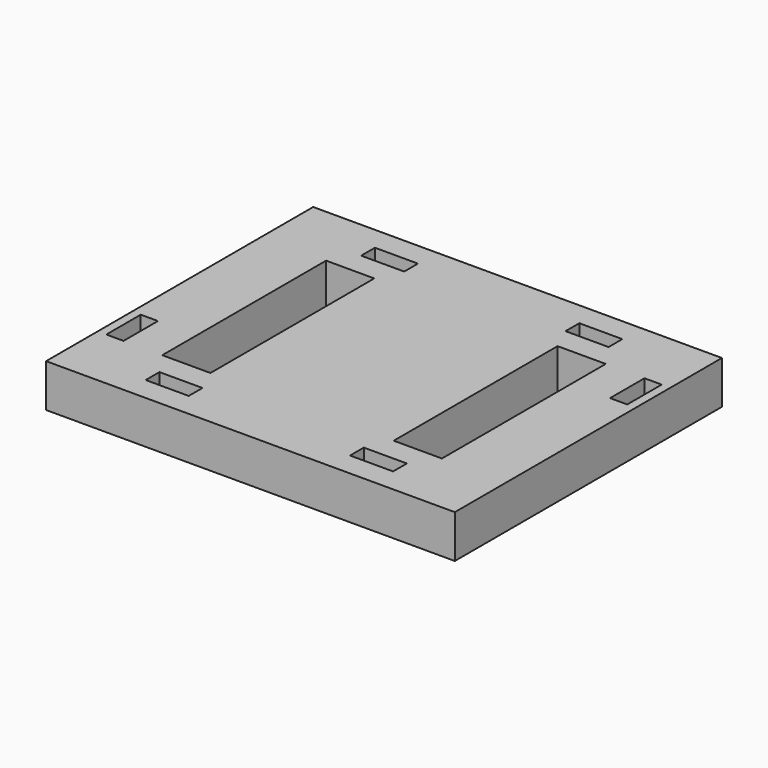
from build123d import *

# Parameters (mm, degrees)
F0_W     = 27.051
F0_H     = 60.452
F0_W_2   = 12.7
F0_H_2   = 5.08
F0_W_3   = 2.54
F0_H_3   = 12.7
F1_DEPTH = 12.7


with BuildPart() as f1:
    # F0 (on Top) → F1 (new body)
    with BuildSketch(Plane.XY):
        Polygon((-23.8125, 39.751), (0, 39.751), (0, 49.276), (-27.051, 49.276), (-60.325, 49.276), (-60.325, 39.751), (-36.5125, 39.751), (-36.5125, 42.291), (-23.8125, 42.291), align=None)
        Polygon((-30.1625, -37.211), (-30.1625, -30.226), (-41.275, -30.226), (-41.275, 30.226), (-30.1625, 30.226), (-30.1625, 37.211), (-36.5125, 37.211), (-36.5125, 39.751), (-60.325, 39.751), (-60.325, -17.526), (-57.785, -17.526), (-52.705, -17.526), (-52.705, -30.226), (-57.785, -30.226), (-60.325, -30.226), (-60.325, -49.276), (-30.1625, -49.276), (-30.1625, -42.291), (-36.5125, -42.291), (-36.5125, -37.211), align=None)
        Polygon((-30.1625, -37.211), (-30.1625, -30.226), (-41.275, -30.226), (-41.275, 30.226), (-30.1625, 30.226), (-30.1625, 37.211), (-36.5125, 37.211), (-36.5125, 39.751), (-60.325, 39.751), (-60.325, -17.526), (-57.785, -17.526), (-52.705, -17.526), (-52.705, -30.226), (-57.785, -30.226), (-60.325, -30.226), (-60.325, -49.276), (-30.1625, -49.276), (-30.1625, -42.291), (-36.5125, -42.291), (-36.5125, -37.211), align=None)
        Polygon((-27.051, 30.226), (0, 30.226), (0, 39.751), (-23.8125, 39.751), (-23.8125, 37.211), (-30.1625, 37.211), (-30.1625, 30.226), align=None)
        with Locations((-13.5255, 0)):
            Rectangle(F0_W, F0_H)
        with Locations((13.5255, 0)):
            Rectangle(F0_W, F0_H)
        Polygon((41.275, -30.226), (27.051, -30.226), (0, -30.226), (-27.051, -30.226), (-30.1625, -30.226), (-30.1625, -37.211), (-23.8125, -37.211), (-23.8125, -42.291), (-30.1625, -42.291), (-30.1625, -49.276), (-27.051, -49.276), (27.051, -49.276), (60.325, -49.276), (60.325, 17.526), (57.785, 17.526), (52.705, 17.526), (52.705, 30.226), (57.785, 30.226), (60.325, 30.226), (60.325, 39.751), (36.5125, 39.751), (36.5125, 37.211), (30.1625, 37.211), (30.1625, 30.226), (41.275, 30.226), align=None)
        with Locations((30.1625, -39.751)):
            Rectangle(F0_W_2, F0_H_2, mode=Mode.SUBTRACT)
        Polygon((41.275, -30.226), (27.051, -30.226), (0, -30.226), (-27.051, -30.226), (-30.1625, -30.226), (-30.1625, -37.211), (-23.8125, -37.211), (-23.8125, -42.291), (-30.1625, -42.291), (-30.1625, -49.276), (-27.051, -49.276), (27.051, -49.276), (60.325, -49.276), (60.325, 17.526), (57.785, 17.526), (52.705, 17.526), (52.705, 30.226), (57.785, 30.226), (60.325, 30.226), (60.325, 39.751), (36.5125, 39.751), (36.5125, 37.211), (30.1625, 37.211), (30.1625, 30.226), (41.275, 30.226), align=None)
        with Locations((30.1625, -39.751)):
            Rectangle(F0_W_2, F0_H_2, mode=Mode.SUBTRACT)
        Polygon((0, 30.226), (27.051, 30.226), (30.1625, 30.226), (30.1625, 37.211), (23.8125, 37.211), (23.8125, 39.751), (0, 39.751), align=None)
        Polygon((0, 49.276), (0, 39.751), (23.8125, 39.751), (23.8125, 42.291), (36.5125, 42.291), (36.5125, 39.751), (60.325, 39.751), (60.325, 49.276), (27.051, 49.276), align=None)
        Polygon((41.275, -30.226), (27.051, -30.226), (0, -30.226), (-27.051, -30.226), (-30.1625, -30.226), (-30.1625, -37.211), (-23.8125, -37.211), (-23.8125, -42.291), (-30.1625, -42.291), (-30.1625, -49.276), (-27.051, -49.276), (27.051, -49.276), (60.325, -49.276), (60.325, 17.526), (57.785, 17.526), (52.705, 17.526), (52.705, 30.226), (57.785, 30.226), (60.325, 30.226), (60.325, 39.751), (36.5125, 39.751), (36.5125, 37.211), (30.1625, 37.211), (30.1625, 30.226), (41.275, 30.226), align=None)
        with Locations((30.1625, -39.751)):
            Rectangle(F0_W_2, F0_H_2, mode=Mode.SUBTRACT)
        with Locations((59.055, 23.876)):
            Rectangle(F0_W_3, F0_H_3)
        with Locations((-59.055, -23.876)):
            Rectangle(F0_W_3, F0_H_3)
    extrude(amount=F1_DEPTH)


solid = f1.part
